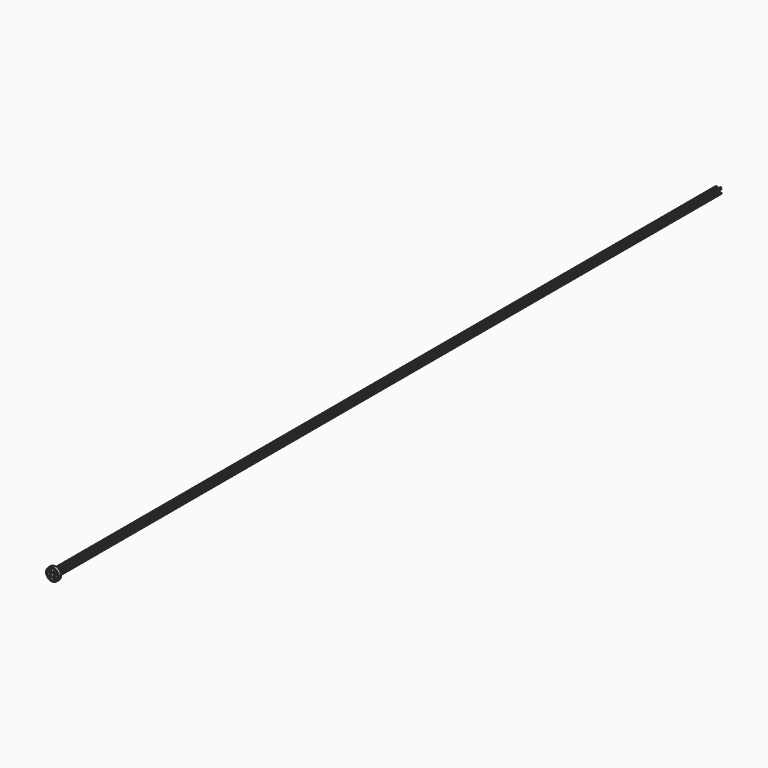
from build123d import *

# Parameters (mm, degrees)
F0_R     = 0.20193
F1_DEPTH = 305
F2_R     = 0.438335
F3_DEPTH = 1
F4_R     = 2.35
F4_R_2   = 1.9
F5_DEPTH = 1


with BuildPart() as f1:
    # F0 (on Front) → F1 (new body)
    with BuildSketch(Plane.XZ):
        with Locations((-0.95193, 0.75)):
            Circle(F0_R)
        with BuildLine():
            ThreePointArc((-0.34614, 0.75), (-0.54807, 0.95193), (-0.75, 0.75))
            ThreePointArc((-0.75, 0.75), (-0.54807, 0.54807), (-0.34614, 0.75))
        make_face()
        with BuildLine():
            ThreePointArc((0.95193, 0.95193), (0.607214, 1.094716), (0.75, 0.75))
            ThreePointArc((0.75, 0.75), (0.892786, 0.809144), (0.95193, 0.95193))
        make_face()
        with BuildLine():
            ThreePointArc((0.75, 0.75), (0.607214, 0.405284), (0.95193, 0.54807))
            ThreePointArc((0.95193, 0.54807), (0.892786, 0.690856), (0.75, 0.75))
        make_face()
        with BuildLine():
            ThreePointArc((-0.54807, -0.54807), (-0.892786, -0.405284), (-0.75, -0.75))
            ThreePointArc((-0.75, -0.75), (-0.607214, -0.690856), (-0.54807, -0.54807))
        make_face()
        with BuildLine():
            ThreePointArc((-0.75, -0.75), (-0.892786, -1.094716), (-0.54807, -0.95193))
            ThreePointArc((-0.54807, -0.95193), (-0.607214, -0.809144), (-0.75, -0.75))
        make_face()
        with Locations((0.54807, -0.75)):
            Circle(F0_R)
        with BuildLine():
            ThreePointArc((0.75, -0.75), (0.95193, -0.95193), (1.15386, -0.75))
            ThreePointArc((1.15386, -0.75), (0.95193, -0.54807), (0.75, -0.75))
        make_face()
    extrude(amount=F1_DEPTH)


with BuildPart() as f3:
    # F2 (on face) → F3 (new body)
    with BuildSketch(Plane.XZ.offset(305)):
        with Locations((0.75, 0.75)):
            Circle(F2_R)
        with BuildLine():
            ThreePointArc((0.54807, 0.95193), (0.75, 1.15386), (0.95193, 0.95193))
            Line((0.95193, 0.95193), (0.95193, 0.54807))
            ThreePointArc((0.95193, 0.54807), (0.75, 0.34614), (0.54807, 0.54807))
            Line((0.54807, 0.54807), (0.54807, 0.95193))
        make_face(mode=Mode.SUBTRACT)
        with Locations((-0.75, 0.75)):
            Circle(F2_R)
        with BuildLine():
            ThreePointArc((-0.54807, 0.95193), (-0.405284, 0.892786), (-0.34614, 0.75))
            ThreePointArc((-0.34614, 0.75), (-0.405284, 0.607214), (-0.54807, 0.54807))
            Line((-0.54807, 0.54807), (-0.95193, 0.54807))
            ThreePointArc((-0.95193, 0.54807), (-1.15386, 0.75), (-0.95193, 0.95193))
            Line((-0.95193, 0.95193), (-0.54807, 0.95193))
        make_face(mode=Mode.SUBTRACT)
        with Locations((-0.75, -0.75)):
            Circle(F2_R)
        with BuildLine():
            ThreePointArc((-0.95193, -0.54807), (-0.75, -0.34614), (-0.54807, -0.54807))
            Line((-0.54807, -0.54807), (-0.54807, -0.95193))
            ThreePointArc((-0.54807, -0.95193), (-0.75, -1.15386), (-0.95193, -0.95193))
            Line((-0.95193, -0.95193), (-0.95193, -0.54807))
        make_face(mode=Mode.SUBTRACT)
        with Locations((0.75, -0.75)):
            Circle(F2_R)
        with BuildLine():
            ThreePointArc((0.54807, -0.95193), (0.34614, -0.75), (0.54807, -0.54807))
            Line((0.54807, -0.54807), (0.95193, -0.54807))
            ThreePointArc((0.95193, -0.54807), (1.094716, -0.607214), (1.15386, -0.75))
            ThreePointArc((1.15386, -0.75), (1.094716, -0.892786), (0.95193, -0.95193))
            Line((0.95193, -0.95193), (0.54807, -0.95193))
        make_face(mode=Mode.SUBTRACT)
    extrude(amount=-F3_DEPTH)


with BuildPart() as f5:
    # F4 (on face) → F5 (new body)
    with BuildSketch(Plane.XZ.offset(305)):
        Circle(F4_R)
        Circle(F4_R_2, mode=Mode.SUBTRACT)
    extrude(amount=-F5_DEPTH)


solid = Compound([f1.part, f3.part, f5.part])
